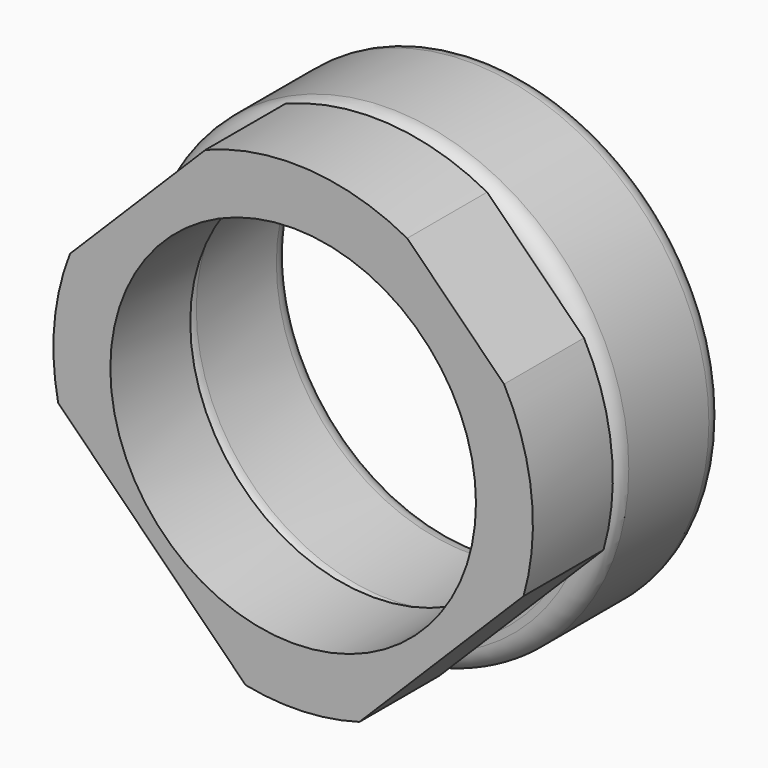
from build123d import *

# Parameters (mm, degrees)
F0_R     = 12
F0_R_2   = 9.65
F1_DEPTH = 7.01
F2_R     = 1
F3_R     = 9.65
F3_R_2   = 9.15
F4_DEPTH = 5


with BuildPart() as f1:
    # F0 (on Front) → F1 (new body)
    with BuildSketch(Plane.XZ):
        Circle(F0_R)
        Circle(F0_R_2, mode=Mode.SUBTRACT)
    extrude(amount=-F1_DEPTH)

    # F2
    f2_edges = [f1.edges().sort_by_distance(p)[0] for p in [
        (-12, 0, 0),
        (-12, 7.01, 0),
        (-9.65, 0, 0),
        (-9.65, 7.01, 0),
    ]]
    fillet(f2_edges, radius=F2_R)


with BuildPart() as f4:
    # F3 (on face) → F4 (new body)
    with BuildSketch(Plane.XZ):
        with BuildLine():
            Line((-4.38701, 11.16934), (-11.16934, 4.38701))
            ThreePointArc((-11.16934, 4.38701), (-11.954329, 1.045957), (-11.761484, -2.380652))
            Line((-11.761484, -2.380652), (-2.380652, -11.761484))
            ThreePointArc((-2.380652, -11.761484), (0.481821, -11.990323), (3.316702, -11.53254))
            Line((3.316702, -11.53254), (11.53254, -3.316702))
            ThreePointArc((11.53254, -3.316702), (11.930295, 1.291535), (10.555568, 5.707888))
            Line((10.555568, 5.707888), (5.707888, 10.555568))
            ThreePointArc((5.707888, 10.555568), (0.728257, 11.977881), (-4.38701, 11.16934))
        make_face()
        Circle(F3_R, mode=Mode.SUBTRACT)
        Circle(F3_R)
        Circle(F3_R_2, mode=Mode.SUBTRACT)
    extrude(amount=F4_DEPTH)


solid = Compound([f1.part, f4.part])
